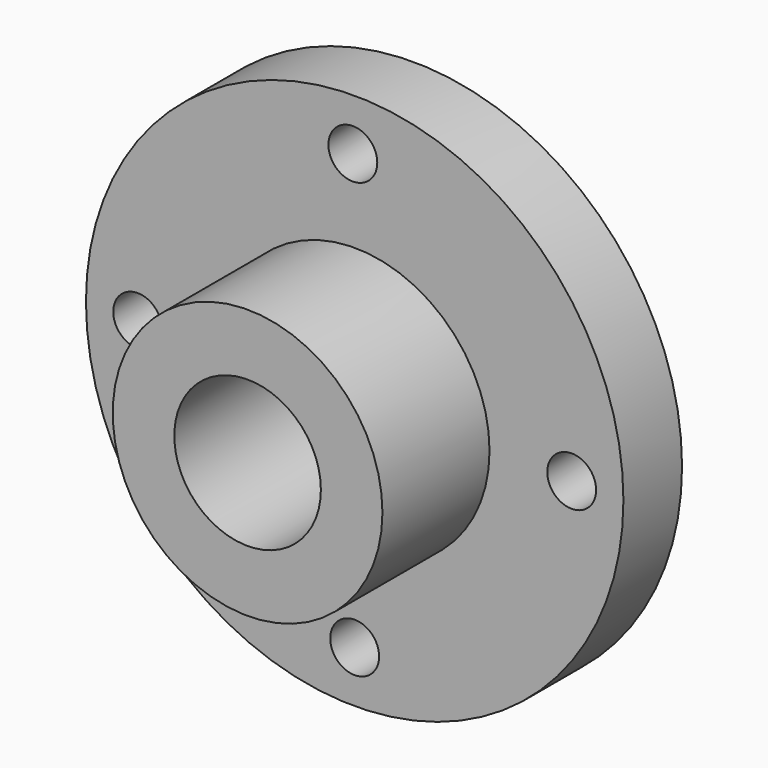
from build123d import *

# Parameters (mm, degrees)
F2_R     = 19.05
F3_DEPTH = 108.966
F4_R     = 6.35
F5_DEPTH = 115.316


with BuildPart() as f1:
    # F0 (on Top) → F1 (revolve)
    with BuildSketch(Plane.XY):
        Polygon((9.751909, 68.992269), (9.751909, 15.144269), (44.803909, 15.144269), (44.803909, 49.942269), (79.601909, 49.942269), (79.601909, 68.992269), align=None)
    revolve(axis=Axis((9.751909, 42.068269, 0), (0, 1, 0)))

    # F2 (on face) → F3 (cut)
    with BuildSketch(Plane.XZ.offset(-15.144269)):
        with Locations((9.751909, 0)):
            Circle(F2_R)
    extrude(amount=-F3_DEPTH, mode=Mode.SUBTRACT)

    # F4 (on face) → F5 (cut)
    with BuildSketch(Plane.XZ.offset(-49.942269)):
        with Locations((9.272376, 56.402412)):
            Circle(F4_R)
        with Locations((66.156359, 0)):
            Circle(F4_R)
        with Locations((-46.652542, 0)):
            Circle(F4_R)
        with Locations((9.751909, -56.404451)):
            Circle(F4_R)
    extrude(amount=-F5_DEPTH, mode=Mode.SUBTRACT)


solid = f1.part
